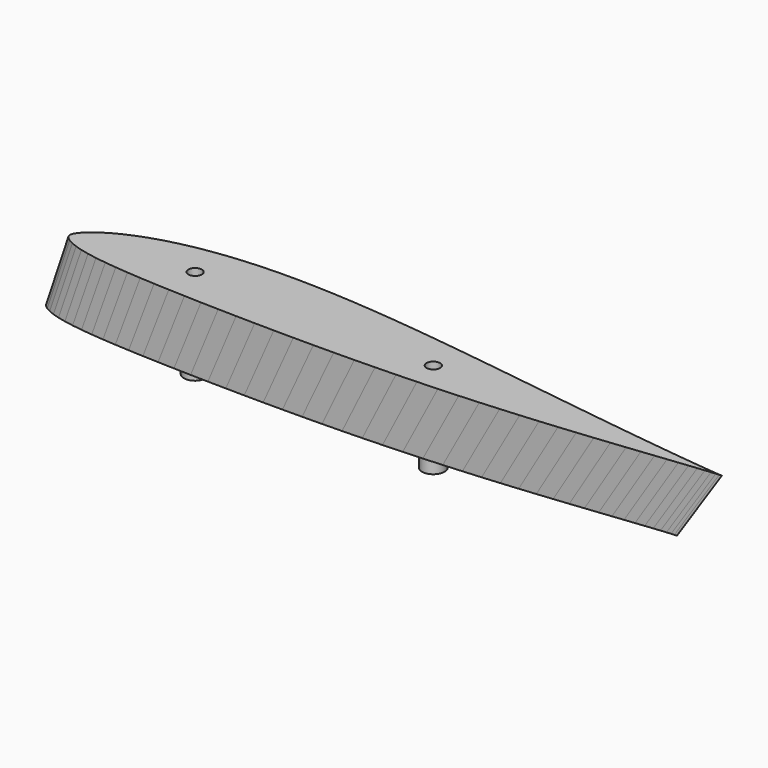
from build123d import *

# Parameters (mm, degrees)
PAD_DEPTH    = 5
SKETCH003_R  = 2.5
PAD001_DEPTH = 15
SKETCH004_R  = 1.5
POCKET_DEPTH = 10


with BuildPart() as fusoliera:
    # Sketch → Pad (new body, symmetric)
    with BuildSketch(Plane.XY):
        with BuildLine():
            Line((290, 0), (289.7129, 0.0174))
            Line((289.7129, 0.0174), (288.8574, 0.0696))
            Line((288.8574, 0.0696), (287.4306, 0.1769))
            Line((287.4306, 0.1769), (285.4441, 0.3509))
            Line((285.4441, 0.3509), (282.9037, 0.6003))
            Line((282.9037, 0.6003), (279.8181, 0.9251))
            Line((279.8181, 0.9251), (276.1989, 1.3224))
            Line((276.1989, 1.3224), (272.0635, 1.7893))
            Line((272.0635, 1.7893), (267.4264, 2.3229))
            Line((267.4264, 2.3229), (262.3079, 2.9261))
            Line((262.3079, 2.9261), (256.7254, 3.6076))
            Line((256.7254, 3.6076), (250.6992, 4.3587))
            Line((250.6992, 4.3587), (244.2583, 5.1852))
            Line((244.2583, 5.1852), (237.4259, 6.0784))
            Line((237.4259, 6.0784), (230.2281, 7.0383))
            Line((230.2281, 7.0383), (230.2281, 40.028069))
            Line((230.2281, 40.028069), (201.90651, 39.515951))
            ThreePointArc((172.217343, 14.637652), (187.660006, 26.363067), (201.90651, 39.515951))
            Line((172.217343, 14.637652), (163.1743, 16.2081))
            Line((163.1743, 16.2081), (154.106, 17.371))
            Line((154.106, 17.371), (145, 18.4817))
            Line((145, 18.4817), (135.8969, 19.5199))
            Line((135.8969, 19.5199), (126.8257, 20.4682))
            Line((126.8257, 20.4682), (117.8299, 21.3034))
            Line((117.8299, 21.3034), (108.9414, 22.0023))
            Line((108.9414, 22.0023), (100.1921, 22.5446))
            Line((100.1921, 22.5446), (91.6226, 22.9129))
            Line((91.6226, 22.9129), (83.2619, 23.0898))
            Line((83.2619, 23.0898), (75.1448, 23.0608))
            Line((75.1448, 23.0608), (67.3061, 22.8201))
            Line((67.3061, 22.8201), (59.7719, 22.3561))
            Line((59.7719, 22.3561), (52.5741, 21.6717))
            Line((52.5741, 21.6717), (45.7417, 20.7698))
            Line((45.7417, 20.7698), (39.3008, 19.662))
            Line((39.3008, 19.662), (33.2746, 18.3628))
            Line((33.2746, 18.3628), (27.6921, 16.8896))
            Line((27.6921, 16.8896), (22.5736, 15.2714))
            Line((22.5736, 15.2714), (17.9365, 13.5314))
            Line((17.9365, 13.5314), (13.8011, 11.7015))
            Line((13.8011, 11.7015), (10.1819, 9.8165))
            Line((10.1819, 9.8165), (7.0963, 7.9112))
            Line((7.0963, 7.9112), (4.5559, 6.0378))
            Line((4.5559, 6.0378), (2.5694, 4.263))
            Line((2.5694, 4.263), (1.1426, 2.6535))
            Line((1.1426, 2.6535), (0.2871, 1.2383))
            Line((0.2871, 1.2383), (0, 0))
            Line((0, 0), (0.2871, -1.131))
            Line((0.2871, -1.131), (1.1426, -2.2243))
            Line((1.1426, -2.2243), (2.5694, -3.3176))
            Line((2.5694, -3.3176), (4.5559, -4.3964))
            Line((4.5559, -4.3964), (7.0963, -5.4201))
            Line((38.675534, -31.593528), (7.0963, -5.4201))
            Line((38.675534, -31.593528), (232.520951, -31.593528))
            Line((232.520951, -31.593528), (244.2583, -4.8227))
            Line((244.2583, -4.8227), (250.6992, -4.1267))
            Line((250.6992, -4.1267), (256.7254, -3.4626))
            Line((256.7254, -3.4626), (262.3079, -2.842))
            Line((262.3079, -2.842), (267.4264, -2.2765))
            Line((267.4264, -2.2765), (272.0635, -1.7661))
            Line((272.0635, -1.7661), (276.1989, -1.3137))
            Line((276.1989, -1.3137), (279.8181, -0.9222))
            Line((279.8181, -0.9222), (282.9037, -0.5974))
            Line((282.9037, -0.5974), (285.4441, -0.3509))
            Line((285.4441, -0.3509), (287.4306, -0.1769))
            Line((287.4306, -0.1769), (288.8574, -0.0696))
            Line((288.8574, -0.0696), (289.7129, -0.0174))
            Line((289.7129, -0.0174), (290, 0))
        make_face()
    extrude(amount=PAD_DEPTH, both=True)


with BuildPart() as loft_body:
    # Sketch001 → Loft section 0
    with BuildSketch(Plane.XY):
        Polygon((290, 0), (289.7129, 0.0174), (288.8574, 0.0696), (287.4306, 0.1769), (285.4441, 0.3509), (282.9037, 0.6003), (279.8181, 0.9251), (276.1989, 1.3224), (272.0635, 1.7893), (267.4264, 2.3229), (262.3079, 2.9261), (256.7254, 3.6076), (250.6992, 4.3587), (244.2583, 5.1852), (237.4259, 6.0784), (230.2281, 7.0383), (222.6939, 8.0591), (214.8552, 9.135), (206.7381, 10.2573), (198.3774, 11.4173), (189.8079, 12.6034), (181.0615, 13.8098), (172.1701, 15.0162), (163.1743, 16.2081), (154.106, 17.371), (145, 18.4817), (135.8969, 19.5199), (126.8257, 20.4682), (117.8299, 21.3034), (108.9414, 22.0023), (100.1921, 22.5446), (91.6226, 22.9129), (83.2619, 23.0898), (75.1448, 23.0608), (67.3061, 22.8201), (59.7719, 22.3561), (52.5741, 21.6717), (45.7417, 20.7698), (39.3008, 19.662), (33.2746, 18.3628), (27.6921, 16.8896), (22.5736, 15.2714), (17.9365, 13.5314), (13.8011, 11.7015), (10.1819, 9.8165), (7.0963, 7.9112), (4.5559, 6.0378), (2.5694, 4.263), (1.1426, 2.6535), (0.2871, 1.2383), (0, 0), (0.2871, -1.131), (1.1426, -2.2243), (2.5694, -3.3176), (4.5559, -4.3964), (7.0963, -5.4201), (10.1819, -6.3568), (13.8011, -7.1949), (17.9365, -7.9344), (22.5736, -8.5811), (27.6921, -9.1437), (33.2746, -9.6367), (39.3008, -10.063), (45.7417, -10.4371), (52.5741, -10.7619), (59.7719, -11.0461), (67.3061, -11.2926), (75.1448, -11.5043), (83.2619, -11.6812), (91.6226, -11.8175), (100.1921, -11.9161), (108.9414, -11.9683), (117.8299, -11.9712), (126.8257, -11.9161), (135.8969, -11.8001), (145, -11.6174), (154.106, -11.3651), (163.1743, -11.0374), (172.1701, -10.6401), (181.0615, -10.1732), (189.8079, -9.6396), (198.3774, -9.0451), (206.7381, -8.4013), (214.8552, -7.7169), (222.6939, -7.0064), (230.2281, -6.2756), (237.4259, -5.5448), (244.2583, -4.8227), (250.6992, -4.1267), (256.7254, -3.4626), (262.3079, -2.842), (267.4264, -2.2765), (272.0635, -1.7661), (276.1989, -1.3137), (279.8181, -0.9222), (282.9037, -0.5974), (285.4441, -0.3509), (287.4306, -0.1769), (288.8574, -0.0696), (289.7129, -0.0174), align=None)
    # Sketch002 → Loft section 1
    with BuildSketch(Plane(origin=(260, 0, 430), x_dir=(1, 0, 0), z_dir=(0, 0, 1))):
        Polygon((120, 0), (119.8812, 0.0072), (119.5272, 0.0288), (118.9368, 0.0732), (118.1148, 0.1452), (117.0636, 0.2484), (115.7868, 0.3828), (114.2892, 0.5472), (112.578, 0.7404), (110.6592, 0.9612), (108.5412, 1.2108), (106.2312, 1.4928), (103.7376, 1.8036), (101.0724, 2.1456), (98.2452, 2.5152), (95.2668, 2.9124), (92.1492, 3.3348), (88.9056, 3.78), (85.5468, 4.2444), (82.0872, 4.7244), (78.5412, 5.2152), (74.922, 5.7144), (71.2428, 6.2136), (67.5204, 6.7068), (63.768, 7.188), (60, 7.6476), (56.2332, 8.0772), (52.4796, 8.4696), (48.7572, 8.8152), (45.0792, 9.1044), (41.4588, 9.3288), (37.9128, 9.4812), (34.4532, 9.5544), (31.0944, 9.5424), (27.8508, 9.4428), (24.7332, 9.2508), (21.7548, 8.9676), (18.9276, 8.5944), (16.2624, 8.136), (13.7688, 7.5984), (11.4588, 6.9888), (9.3408, 6.3192), (7.422, 5.5992), (5.7108, 4.842), (4.2132, 4.062), (2.9364, 3.2736), (1.8852, 2.4984), (1.0632, 1.764), (0.4728, 1.098), (0.1188, 0.5124), (0, 0), (0.1188, -0.468), (0.4728, -0.9204), (1.0632, -1.3728), (1.8852, -1.8192), (2.9364, -2.2428), (4.2132, -2.6304), (5.7108, -2.9772), (7.422, -3.2832), (9.3408, -3.5508), (11.4588, -3.7836), (13.7688, -3.9876), (16.2624, -4.164), (18.9276, -4.3188), (21.7548, -4.4532), (24.7332, -4.5708), (27.8508, -4.6728), (31.0944, -4.7604), (34.4532, -4.8336), (37.9128, -4.89), (41.4588, -4.9308), (45.0792, -4.9524), (48.7572, -4.9536), (52.4796, -4.9308), (56.2332, -4.8828), (60, -4.8072), (63.768, -4.7028), (67.5204, -4.5672), (71.2428, -4.4028), (74.922, -4.2096), (78.5412, -3.9888), (82.0872, -3.7428), (85.5468, -3.4764), (88.9056, -3.1932), (92.1492, -2.8992), (95.2668, -2.5968), (98.2452, -2.2944), (101.0724, -1.9956), (103.7376, -1.7076), (106.2312, -1.4328), (108.5412, -1.176), (110.6592, -0.942), (112.578, -0.7308), (114.2892, -0.5436), (115.7868, -0.3816), (117.0636, -0.2472), (118.1148, -0.1452), (118.9368, -0.0732), (119.5272, -0.0288), (119.8812, -0.0072), align=None)
    loft()


with BuildPart() as loft_body_1:
    # Loft placement: moved
    add(loft_body.part.moved(Location((0, 0, 5))))


with BuildPart() as aereo:
    # Part__Mirroring: instance of Loft body
    add(loft_body_1.part.mirror(Plane(origin=(170, 5.5593, 0), x_dir=(0, 1, 0), z_dir=(0, 0, 1))))

    # Fusion001: union Loft body
    add(loft_body_1.part)

    # Fusion002: union fusoliera
    add(fusoliera.part)


with BuildPart() as obj1:
    # DWire001 → Loft001 section 0
    with BuildSketch(Plane(origin=(245, 0, 425), x_dir=(1, 0, 0), z_dir=(0, 0, 1))):
        Polygon((140, 0), (139.8614, 0.0084), (139.4484, 0.0336), (138.7596, 0.0854), (137.8006, 0.1694), (136.5742, 0.2898), (135.0846, 0.4466), (133.3374, 0.6384), (131.341, 0.8638), (129.1024, 1.1214), (126.6314, 1.4126), (123.9364, 1.7416), (121.0272, 2.1042), (117.9178, 2.5032), (114.6194, 2.9344), (111.1446, 3.3978), (107.5074, 3.8906), (103.7232, 4.41), (99.8046, 4.9518), (95.7684, 5.5118), (91.6314, 6.0844), (87.409, 6.6668), (83.1166, 7.2492), (78.7738, 7.8246), (74.396, 8.386), (70, 8.9222), (65.6054, 9.4234), (61.2262, 9.8812), (56.8834, 10.2844), (52.5924, 10.6218), (48.3686, 10.8836), (44.2316, 11.0614), (40.1954, 11.1468), (36.2768, 11.1328), (32.4926, 11.0166), (28.8554, 10.7926), (25.3806, 10.4622), (22.0822, 10.0268), (18.9728, 9.492), (16.0636, 8.8648), (13.3686, 8.1536), (10.8976, 7.3724), (8.659, 6.5324), (6.6626, 5.649), (4.9154, 4.739), (3.4258, 3.8192), (2.1994, 2.9148), (1.2404, 2.058), (0.5516, 1.281), (0.1386, 0.5978), (0, 0), (0.1386, -0.546), (0.5516, -1.0738), (1.2404, -1.6016), (2.1994, -2.1224), (3.4258, -2.6166), (4.9154, -3.0688), (6.6626, -3.4734), (8.659, -3.8304), (10.8976, -4.1426), (13.3686, -4.4142), (16.0636, -4.6522), (18.9728, -4.858), (22.0822, -5.0386), (25.3806, -5.1954), (28.8554, -5.3326), (32.4926, -5.4516), (36.2768, -5.5538), (40.1954, -5.6392), (44.2316, -5.705), (48.3686, -5.7526), (52.5924, -5.7778), (56.8834, -5.7792), (61.2262, -5.7526), (65.6054, -5.6966), (70, -5.6084), (74.396, -5.4866), (78.7738, -5.3284), (83.1166, -5.1366), (87.409, -4.9112), (91.6314, -4.6536), (95.7684, -4.3666), (99.8046, -4.0558), (103.7232, -3.7254), (107.5074, -3.3824), (111.1446, -3.0296), (114.6194, -2.6768), (117.9178, -2.3282), (121.0272, -1.9922), (123.9364, -1.6716), (126.6314, -1.372), (129.1024, -1.099), (131.341, -0.8526), (133.3374, -0.6342), (135.0846, -0.4452), (136.5742, -0.2884), (137.8006, -0.1694), (138.7596, -0.0854), (139.4484, -0.0336), (139.8614, -0.0084), align=None)
    # DWire → Loft001 section 1
    with BuildSketch(Plane(origin=(250, 0, 440), x_dir=(1, 0, 0), z_dir=(0, 0, 1))):
        Polygon((145, 0), (144.85645, 0.0087), (144.4287, 0.0348), (143.7153, 0.08845), (142.72205, 0.17545), (141.45185, 0.30015), (139.90905, 0.46255), (138.09945, 0.6612), (136.03175, 0.89465), (133.7132, 1.16145), (131.15395, 1.46305), (128.3627, 1.8038), (125.3496, 2.17935), (122.12915, 2.5926), (118.71295, 3.0392), (115.11405, 3.51915), (111.34695, 4.02955), (107.4276, 4.5675), (103.36905, 5.12865), (99.1887, 5.70865), (94.90395, 6.3017), (90.53075, 6.9049), (86.08505, 7.5081), (81.58715, 8.10405), (77.053, 8.6855), (72.5, 9.24085), (67.94845, 9.75995), (63.41285, 10.2341), (58.91495, 10.6517), (54.4707, 11.00115), (50.09605, 11.2723), (45.8113, 11.45645), (41.63095, 11.5449), (37.5724, 11.5304), (33.65305, 11.41005), (29.88595, 11.17805), (26.28705, 10.83585), (22.87085, 10.3849), (19.6504, 9.831), (16.6373, 9.1814), (13.84605, 8.4448), (11.2868, 7.6357), (8.96825, 6.7657), (6.90055, 5.85075), (5.09095, 4.90825), (3.54815, 3.9556), (2.27795, 3.0189), (1.2847, 2.1315), (0.5713, 1.32675), (0.14355, 0.61915), (0, 0), (0.14355, -0.5655), (0.5713, -1.11215), (1.2847, -1.6588), (2.27795, -2.1982), (3.54815, -2.71005), (5.09095, -3.1784), (6.90055, -3.59745), (8.96825, -3.9672), (11.2868, -4.29055), (13.84605, -4.57185), (16.6373, -4.81835), (19.6504, -5.0315), (22.87085, -5.21855), (26.28705, -5.38095), (29.88595, -5.52305), (33.65305, -5.6463), (37.5724, -5.75215), (41.63095, -5.8406), (45.8113, -5.90875), (50.09605, -5.95805), (54.4707, -5.98415), (58.91495, -5.9856), (63.41285, -5.95805), (67.94845, -5.90005), (72.5, -5.8087), (77.053, -5.68255), (81.58715, -5.5187), (86.08505, -5.32005), (90.53075, -5.0866), (94.90395, -4.8198), (99.1887, -4.52255), (103.36905, -4.20065), (107.4276, -3.85845), (111.34695, -3.5032), (115.11405, -3.1378), (118.71295, -2.7724), (122.12915, -2.41135), (125.3496, -2.06335), (128.3627, -1.7313), (131.15395, -1.421), (133.7132, -1.13825), (136.03175, -0.88305), (138.09945, -0.65685), (139.90905, -0.4611), (141.45185, -0.2987), (142.72205, -0.17545), (143.7153, -0.08845), (144.4287, -0.0348), (144.85645, -0.0087), align=None)
    loft()

    # Cut: cut aereo
    add(aereo.part, mode=Mode.SUBTRACT)

    # Sketch003 → Pad001 (new body)
    with BuildSketch(Plane(origin=(0, 0, 435), x_dir=(1, 0, 0), z_dir=(0, 0, -1))):
        with Locations((275.698486, -2.665872)):
            Circle(SKETCH003_R)
        with Locations((329.982819, -1.037345)):
            Circle(SKETCH003_R)
    extrude(amount=PAD001_DEPTH)

    # Sketch004 → Pocket (cut)
    with BuildSketch(Plane.XY.offset(440)):
        with Locations((329.982819, 1.037345)):
            Circle(SKETCH004_R)
        with Locations((275.698486, 2.665872)):
            Circle(SKETCH004_R)
    extrude(amount=-POCKET_DEPTH, mode=Mode.SUBTRACT)


solid = obj1.part
